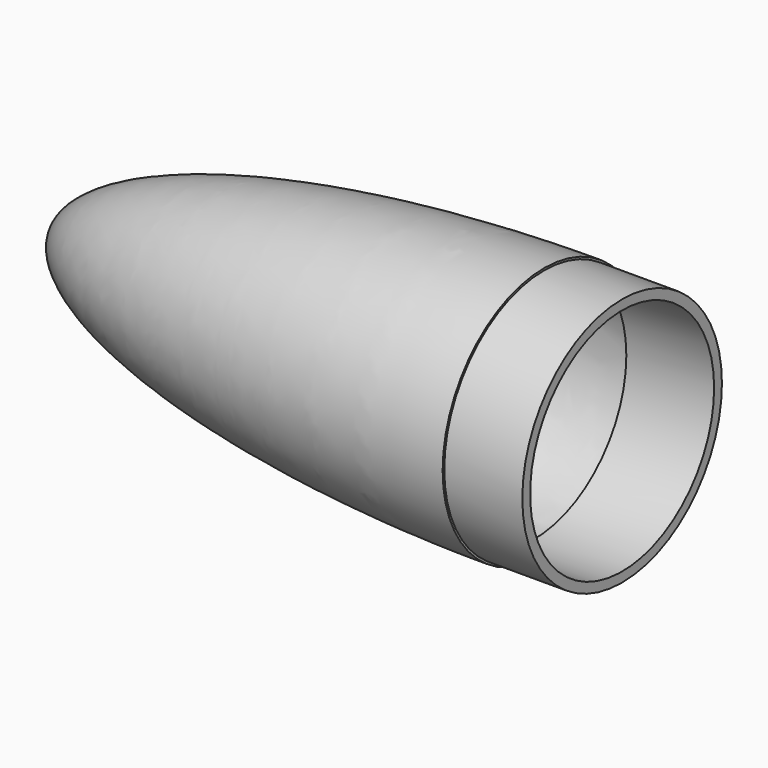
from build123d import *

# Parameters (mm, degrees)
F0_W = 20.32
F0_H = 32.4866
F2_T = -2.54


with BuildPart() as f1:
    # F0 (on Top) → F1 (revolve)
    with BuildSketch(Plane.XY):
        with BuildLine():
            Line((0, 32.4866), (0, 33.02))
            add(Edge.make_bspline(
                [(0, 33.02), (-127, 33.02), (-127, 0)],
                knots=[4.7123889804, 4.7123889804, 4.7123889804, 6.2831853072, 6.2831853072, 6.2831853072], degree=2, weights=[1, 0.7071067812, 1]))
            Line((-127, 0), (0, 0))
            Line((0, 0), (0, 32.4866))
        make_face()
        with Locations((10.16, 16.2433)):
            Rectangle(F0_W, F0_H)
    revolve(axis=Axis((-53.34, 0, 0), (1, 0, 0)))

    # F2
    f2_openings = [f1.faces().sort_by_distance(p)[0] for p in [
        (20.32, 0, 0),
    ]]
    offset(amount=F2_T, openings=f2_openings, kind=Kind.INTERSECTION)


solid = f1.part
